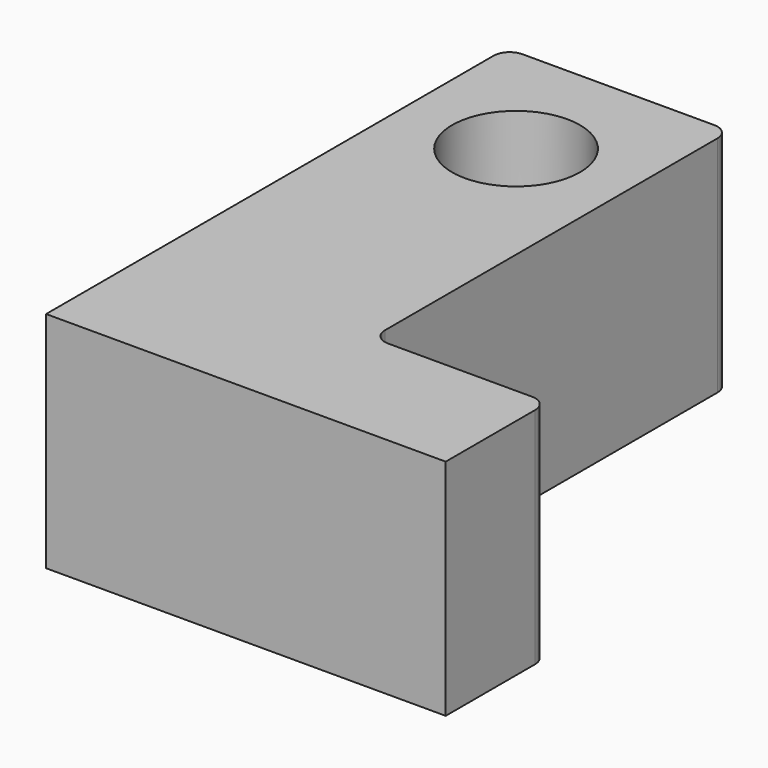
from build123d import *

# Parameters (mm, degrees)
SKETCH_R    = 4
PAD_DEPTH   = 14
SKETCH001_R = 2.5
HOLE_DEPTH  = 25
HOLE_TIPS_R = 2.5
FILLET_R    = 1


with BuildPart() as part:
    # Sketch → Pad (new body)
    with BuildSketch(Plane.XY):
        Polygon((0, 0), (25, 0), (25, 8), (14, 8), (14, 36), (0, 36), align=None)
        with Locations((7, 28)):
            Circle(SKETCH_R, mode=Mode.SUBTRACT)
    extrude(amount=PAD_DEPTH)

    # Sketch001 (on Face6 of Pad) → Hole (cut)
    with BuildSketch(Plane(origin=(0, 0, 0), x_dir=(0, -1, 0), z_dir=(-1, 0, 0))):
        with Locations((-13, 7)):
            Circle(SKETCH001_R)
    extrude(amount=-HOLE_DEPTH, mode=Mode.SUBTRACT)

    # Hole tips → Hole tip 1 section 0
    with BuildSketch(Plane(origin=(25, 0, 0), x_dir=(0, -1, 0), z_dir=(-1, 0, 0)), mode=Mode.PRIVATE) as hole_tip_1_s0:
        with Locations((-13, 7)):
            Circle(HOLE_TIPS_R)
    loft([hole_tip_1_s0.sketch, Vertex(26.502152, 13, 7)], mode=Mode.SUBTRACT)

    # Fillet
    fillet_edges = [part.edges().sort_by_distance(p)[0] for p in [
        (14, 8, 7),
        (14, 36, 7),
        (0, 36, 7),
        (25, 8, 7),
    ]]
    fillet(fillet_edges, radius=FILLET_R)


solid = part.part
